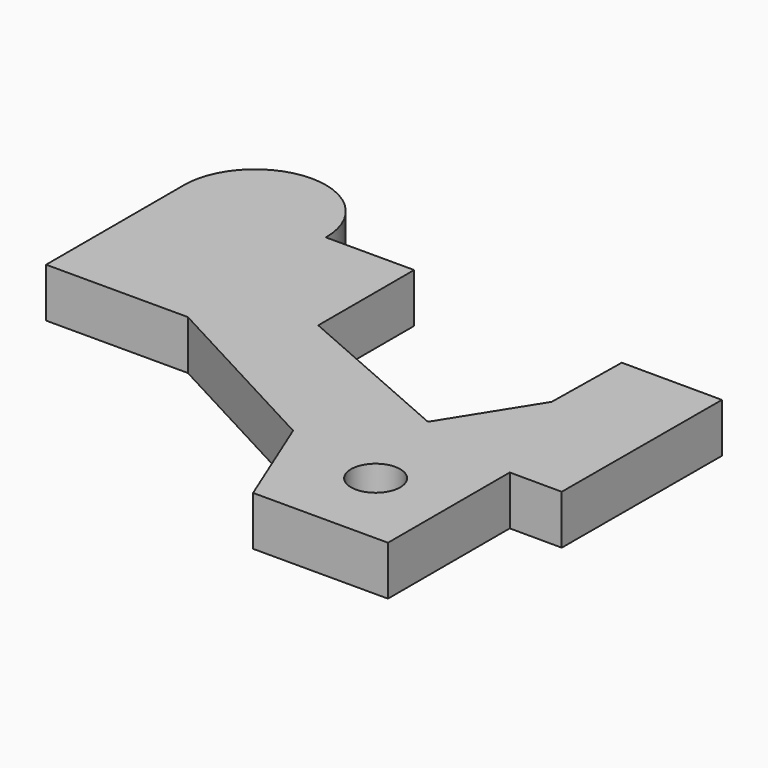
from build123d import *

# Parameters (mm, degrees)
F0_R     = 2
F1_DEPTH = 4


with BuildPart() as f1:
    # F0 (on Top) → F1 (new body)
    with BuildSketch(Plane.XY):
        with BuildLine():
            Line((-159.543321, 56.417756), (-159.543321, 42.404792))
            Line((-159.543321, 42.404792), (-148.025898, 42.404792))
            Line((-148.025898, 42.404792), (-133.070684, 34.393251))
            Line((-133.070684, 34.393251), (-129.709324, 26.128011))
            Line((-129.709324, 26.128011), (-118.751742, 26.128011))
            Line((-118.751742, 26.128011), (-118.751742, 38.491473))
            Line((-118.751742, 38.491473), (-114.518747, 38.478882))
            Line((-114.518747, 38.478882), (-114.470554, 54.681407))
            Line((-114.470554, 54.681407), (-122.62332, 54.705656))
            Line((-122.62332, 54.705656), (-122.733846, 47.726375))
            Line((-122.733846, 47.726375), (-127.154761, 40.680661))
            Line((-127.154761, 40.680661), (-140.857846, 46.682025))
            Line((-140.857846, 46.682025), (-140.857846, 56.417756))
            Line((-140.857846, 56.417756), (-148.025898, 56.417756))
            ThreePointArc((-148.025898, 56.417756), (-153.784609, 62.176467), (-159.543321, 56.417756))
        make_face()
        with Locations((-124.899976, 32.55615)):
            Circle(F0_R, mode=Mode.SUBTRACT)
    extrude(amount=F1_DEPTH)


solid = f1.part
